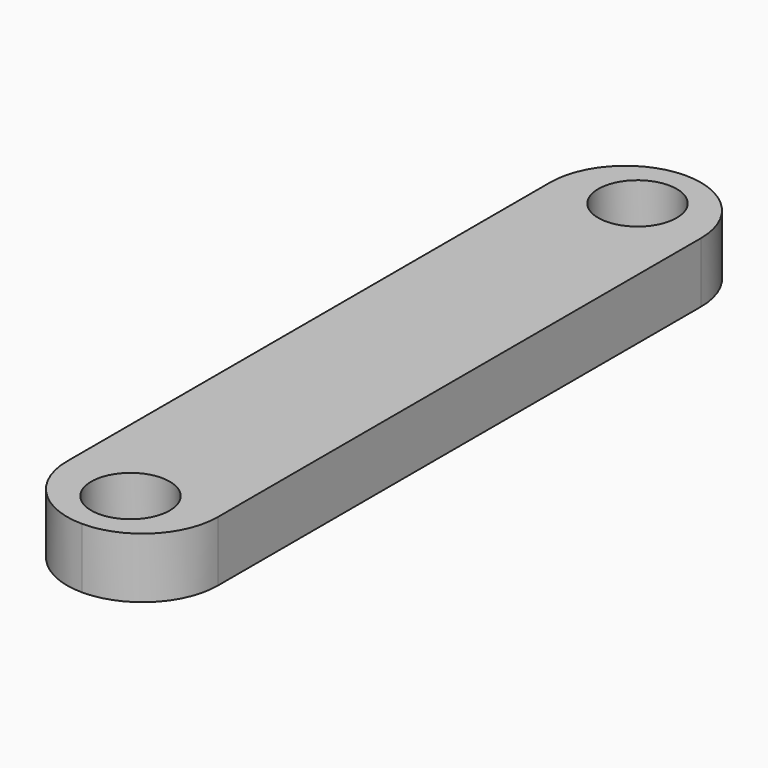
from build123d import *

# Parameters (mm, degrees)
F1_DEPTH = 250
F3_DEPTH = 25
F4_R     = 13
F5_DEPTH = 25


with BuildPart() as f1:
    # F0 (on Front) → F1 (new body)
    with BuildSketch(Plane.XZ):
        Polygon((-28.448276, 1.130267), (-28.448276, 0), (-28.448276, -18.869733), (21.551724, -18.869733), (21.551724, 1.130267), align=None)
    extrude(amount=F1_DEPTH)

    # F2 (on face) → F3 (cut)
    with BuildSketch(Plane.XY.offset(1.130267)):
        with BuildLine():
            Line((21.551724, 0), (-3.448276, 0))
            ThreePointArc((-3.448276, 0), (14.229393, -7.32233), (21.551724, -25))
            Line((21.551724, -25), (21.551724, 0))
        make_face()
        with BuildLine():
            Line((-28.448276, 0), (-28.448276, -25))
            ThreePointArc((-28.448276, -25), (-21.125946, -7.32233), (-3.448276, 0))
            Line((-3.448276, 0), (-28.448276, 0))
        make_face()
        with BuildLine():
            ThreePointArc((21.551724, -225), (14.229393, -242.67767), (-3.448277, -250))
            Line((-3.448277, -250), (21.551724, -250))
            Line((21.551724, -250), (21.551724, -225))
        make_face()
        with BuildLine():
            ThreePointArc((-3.448277, -250), (-21.125946, -242.677669), (-28.448276, -225))
            Line((-28.448276, -225), (-28.448276, -250))
            Line((-28.448276, -250), (-3.448277, -250))
        make_face()
    extrude(amount=-F3_DEPTH, mode=Mode.SUBTRACT)

    # F4 (on face) → F5 (cut)
    with BuildSketch(Plane.XY.offset(1.130267)):
        with Locations((-3.448276, -20)):
            Circle(F4_R)
        with Locations((-3.448276, -230)):
            Circle(F4_R)
    extrude(amount=-F5_DEPTH, mode=Mode.SUBTRACT)


solid = f1.part
